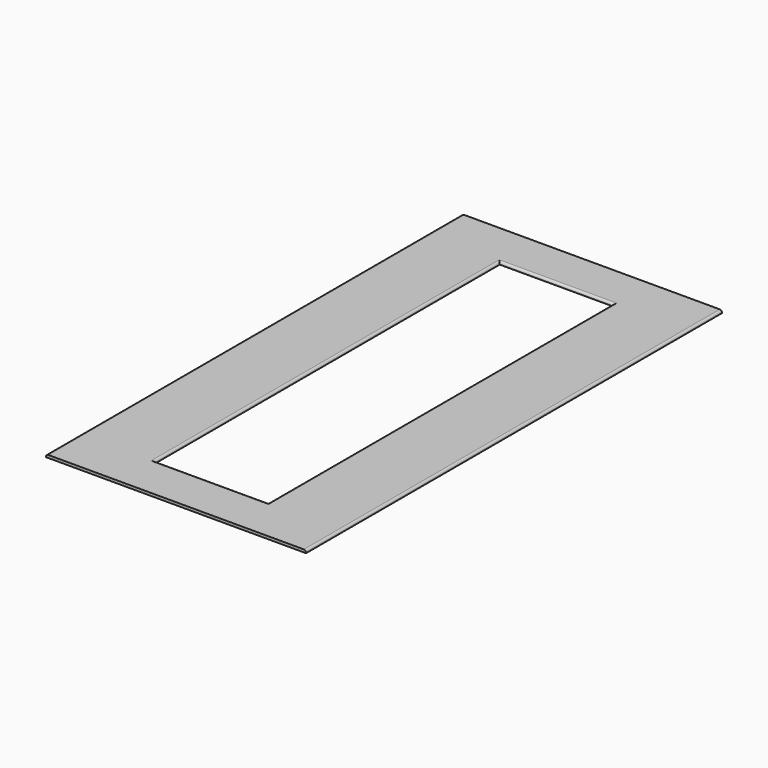
from build123d import *

# Parameters (mm, degrees)
F0_W     = 609.6
F0_H     = 1219.2
F0_W_2   = 266.52658
F0_H_2   = 1011.554956
F1_DEPTH = 6.35
F2_R     = 5.08
F3_R     = 5.08


with BuildPart() as f1:
    # F0 (on Top) → F1 (new body)
    with BuildSketch(Plane.XY):
        Rectangle(F0_W, F0_H)
        Rectangle(F0_W_2, F0_H_2, mode=Mode.SUBTRACT)
    extrude(amount=F1_DEPTH)

    # F2
    f2_edges = [f1.edges().sort_by_distance(p)[0] for p in [
        (133.26329, 0, 6.35),
        (0, -505.777478, 6.35),
        (-133.26329, 0, 6.35),
        (0, 505.777478, 6.35),
    ]]
    fillet(f2_edges, radius=F2_R)

    # F3
    f3_edges = [f1.edges().sort_by_distance(p)[0] for p in [
        (-304.8, 0, 6.35),
        (304.8, 0, 6.35),
    ]]
    fillet(f3_edges, radius=F3_R)


solid = f1.part
